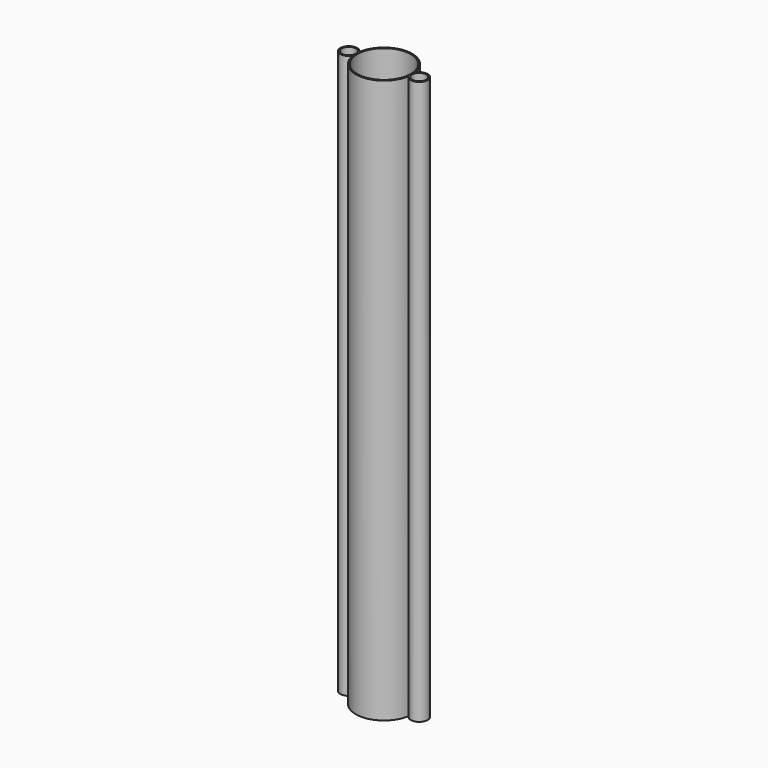
from build123d import *

# Parameters (mm, degrees)
F0_R     = 5
F0_R_2   = 4.75
F1_DEPTH = 100
F2_R     = 1.5
F2_R_2   = 1.25
F3_DEPTH = 100


with BuildPart() as f1:
    # F0 (on Top) → F1 (new body)
    with BuildSketch(Plane.XY):
        Circle(F0_R)
        Circle(F0_R_2, mode=Mode.SUBTRACT)
    extrude(amount=F1_DEPTH)

    # F2 (on Top) → F3 (join, through all)
    with BuildSketch(Plane.XY):
        with Locations((6.25, 0)):
            Circle(F2_R)
        with Locations((6.25, 0)):
            Circle(F2_R_2, mode=Mode.SUBTRACT)
        with Locations((-6.25, 0)):
            Circle(F2_R)
        with Locations((-6.25, 0)):
            Circle(F2_R_2, mode=Mode.SUBTRACT)
    extrude(amount=F3_DEPTH)


solid = f1.part
